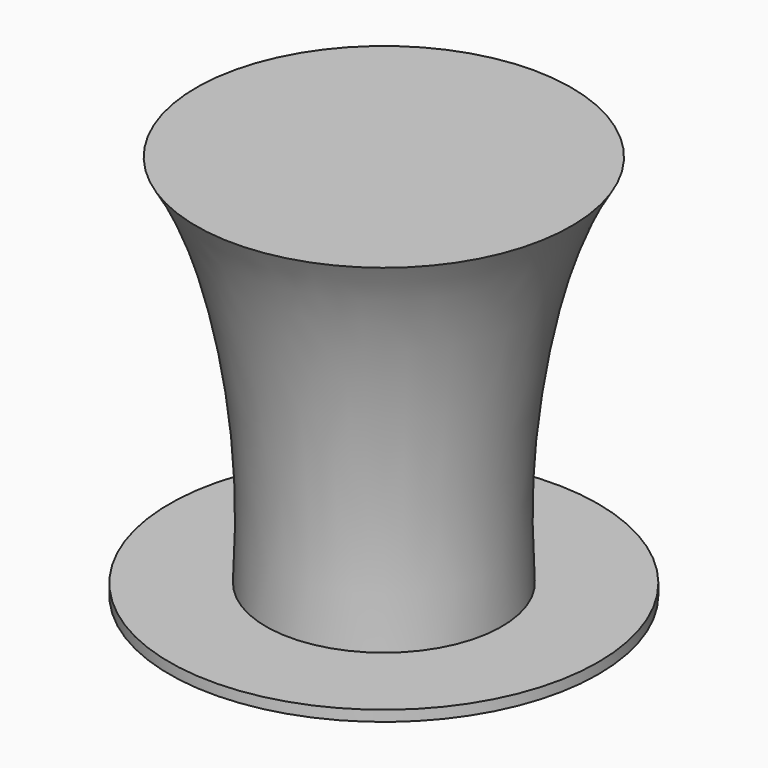
from build123d import *

# Parameters (mm, degrees)
F0_R     = 20
F1_DEPTH = 1


with BuildPart() as f1:
    # F0 (on Top) → F1 (new body)
    with BuildSketch(Plane.XY):
        Circle(F0_R)
    extrude(amount=F1_DEPTH)

    # F2 (on Right) → F3 (revolve)
    with BuildSketch(Plane.YZ):
        with BuildLine():
            Line((0, 36), (0, 1))
            Line((0, 1), (11, 1))
            add(Edge.make_bspline(
                [(17.5, 36), (14.2294438377, 30.8583521209), (10.8604008954, 16.7870189228), (10.7120739303, 6.3353506689), (11, 1)],
                knots=[0, 0, 0, 0, 0.5265928886, 1, 1, 1, 1], degree=3))
            Line((17.5, 36), (0, 36))
        make_face()
    revolve(axis=Axis((0, 0, 18.5), (0, 0, 1)))


solid = f1.part
